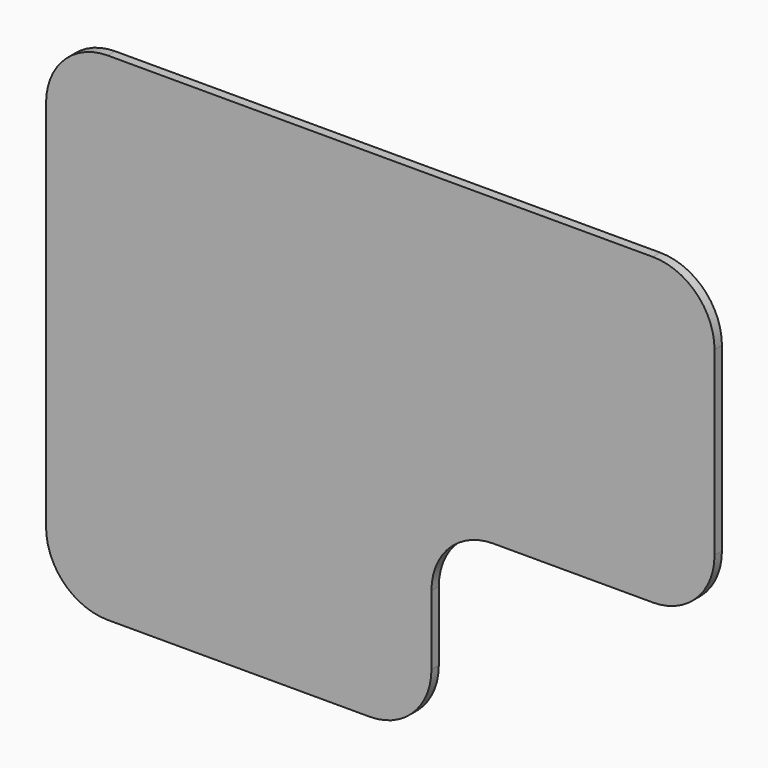
from build123d import *

# Parameters (mm, degrees)
F1_DEPTH = 1.2


with BuildPart() as f1:
    # F0 (on Front) → F1 (new body)
    with BuildSketch(Plane.XZ):
        with BuildLine():
            Line((-3.732663, 0), (0, 0))
            Line((0, 0), (30.267337, 0))
            ThreePointArc((30.267337, 0), (35.924192, 2.343146), (38.267337, 8))
            Line((38.267337, 8), (38.267337, 17))
            ThreePointArc((38.267337, 17), (40.610483, 22.656854), (46.267337, 25))
            Line((46.267337, 25), (67, 25))
            ThreePointArc((67, 25), (72.656854, 27.343146), (75, 33))
            Line((75, 33), (75, 50))
            Line((75, 50), (75, 56.479252))
            ThreePointArc((75, 56.479252), (72.656854, 62.136106), (67, 64.479252))
            Line((67, 64.479252), (-3.732663, 64.479252))
            ThreePointArc((-3.732663, 64.479252), (-9.389517, 62.136106), (-11.732663, 56.479252))
            Line((-11.732663, 56.479252), (-11.732663, 8))
            ThreePointArc((-11.732663, 8), (-9.389517, 2.343146), (-3.732663, 0))
        make_face()
    extrude(amount=-F1_DEPTH)


solid = f1.part
